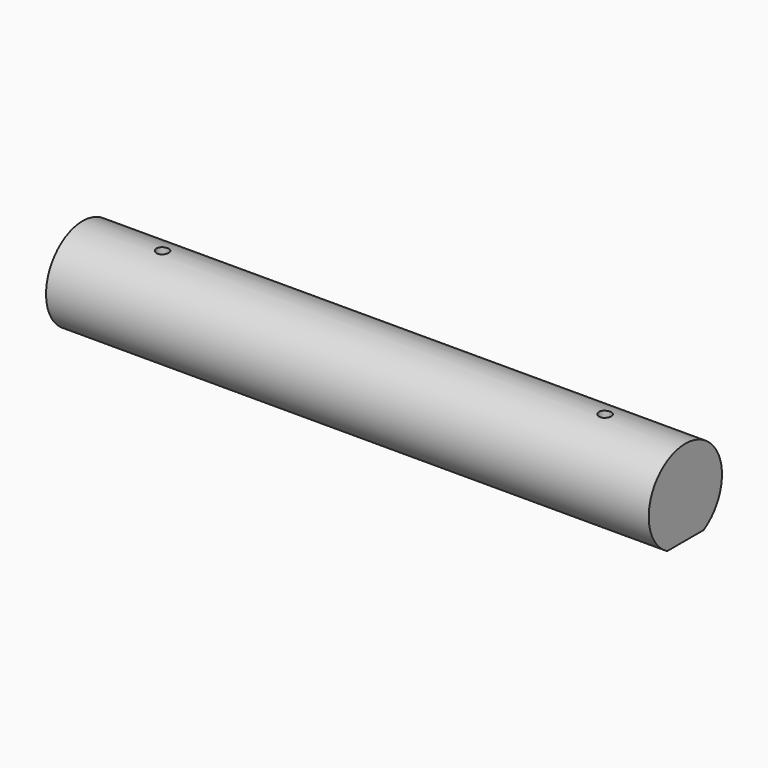
from build123d import *

# Parameters (mm, degrees)
F1_DEPTH = 395
F2_R     = 6
F2_R_2   = 4
F3_DEPTH = 43
F4_R     = 4
F5_DEPTH = 71
F6_SIZE  = 6


with BuildPart() as f1:
    # F0 (on Right) → F1 (new body)
    with BuildSketch(Plane.YZ):
        with BuildLine():
            Line((-14.96663, -26), (14.96663, -26))
            ThreePointArc((14.96663, -26), (0, 30), (-14.96663, -26))
        make_face()
    extrude(amount=F1_DEPTH)

    # F2 (on face) → F3 (cut)
    with BuildSketch(Plane(origin=(0, 0, -26), x_dir=(1, 0, 0), z_dir=(0, 0, -1))):
        with Locations((372.5, 0)):
            Circle(F2_R)
        with Locations((22.5, 0)):
            Circle(F2_R)
        with Locations((52.5, 0)):
            Circle(F2_R_2)
        with Locations((342.5, 0)):
            Circle(F2_R_2)
    extrude(amount=-F3_DEPTH, mode=Mode.SUBTRACT)

    # F4 (on face) → F5 (cut)
    with BuildSketch(Plane(origin=(0, 0, -26), x_dir=(1, 0, 0), z_dir=(0, 0, -1))):
        with Locations((52.5, 0)):
            Circle(F4_R)
        with Locations((342.5, 0)):
            Circle(F4_R)
    extrude(amount=-F5_DEPTH, mode=Mode.SUBTRACT)

    # F6
    f6_edges = [f1.edges().sort_by_distance(p)[0] for p in [
        (366.5, 0, 17),
        (16.5, 0, 17),
    ]]
    chamfer(f6_edges, length=F6_SIZE)


solid = f1.part
